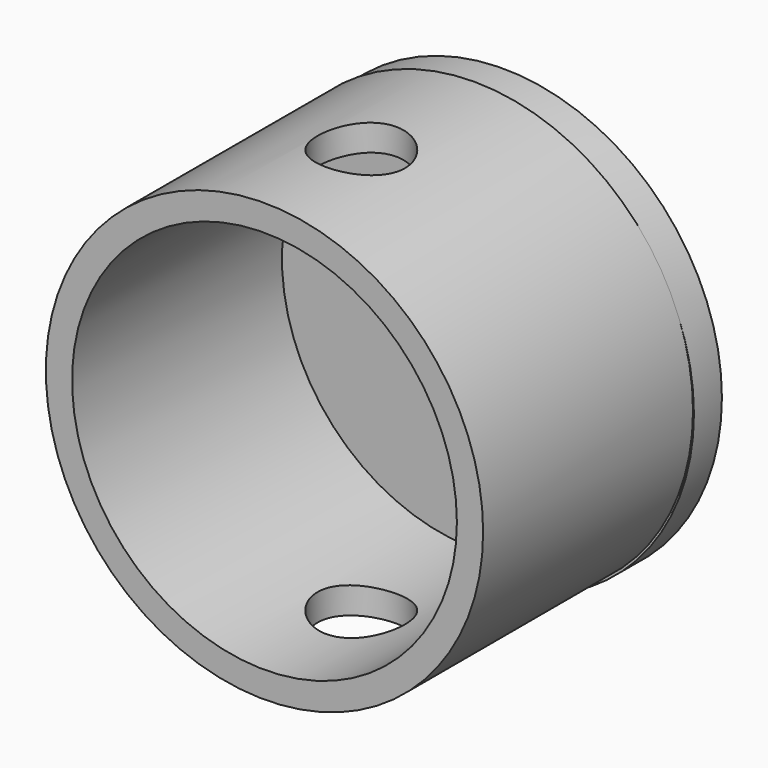
from build123d import *

# Parameters (mm, degrees)
F0_R     = 31.75
F0_R_2   = 27.94
F1_DEPTH = 38.1
F2_R     = 31.75
F3_DEPTH = 5.08
F4_R     = 6.35
F5_DEPTH = 61.976


with BuildPart() as f1:
    # F0 (on Front) → F1 (new body)
    with BuildSketch(Plane.XZ):
        Circle(F0_R)
        Circle(F0_R_2, mode=Mode.SUBTRACT)
    extrude(amount=F1_DEPTH)

    # F2 (on Front) → F3 (join)
    with BuildSketch(Plane.XZ):
        with Locations((0.1314867404, -0.3395704844)):
            Circle(F2_R)
    extrude(amount=-F3_DEPTH)

    # F4 (on Top) → F5 (cut, symmetric)
    with BuildSketch(Plane.XY):
        with Locations((0, -20.52645199)):
            Circle(F4_R)
    extrude(amount=F5_DEPTH, both=True, mode=Mode.SUBTRACT)


solid = f1.part
